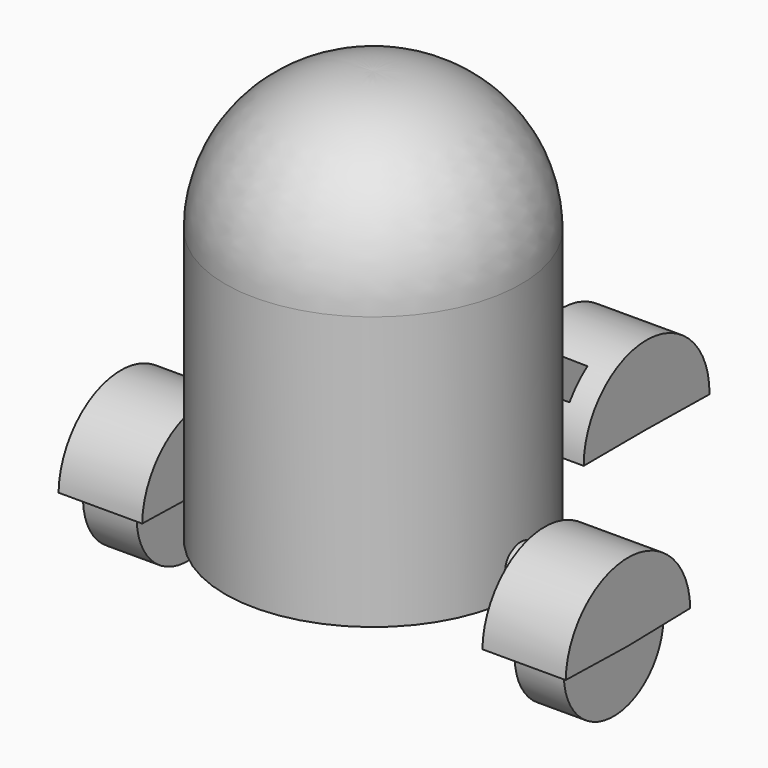
from build123d import *

# Parameters (mm, degrees)
F2_W          = 32.0429354906
F2_H          = 29.8280566931
F3_ANGLE_BACK = 88.7646603402
F3_ANGLE      = 177.5293206805
F2_W_2        = 31.9146811962
F4_R          = 6.9422785997
F5_DEPTH      = 75.1910284162
F7_W          = 32.6952636242
F7_H          = 30.1112085581
F8_ANGLE_BACK = 90.8560405858
F8_ANGLE      = 181.0352194428
F10_DEPTH     = 5.3917551413
F11_W         = 20.5672681332
F11_H         = 22.4275141954
F11_W_2       = 18.8117921352
F11_H_2       = 23.8710641861


with BuildPart() as f1:
    # F0 (on Front) → F1 (revolve)
    with BuildSketch(Plane.XZ):
        with BuildLine():
            ThreePointArc((0, 79.7378569841), (-39.8556403418, 65.3140028799), (-56.6673278809, 26.4053046703))
            Line((-56.6673278809, 26.4053046703), (-56.6673278809, -78.1663507223))
            Line((-56.6673278809, -78.1663507223), (0, -77.6233673096))
            Line((0, -77.6233673096), (0, 26.4053046703))
            Line((0, 26.4053046703), (0, 79.7378569841))
        make_face()
    revolve(axis=Axis((0, 0, -25.6090313196), (0, 0, 1)))


with BuildPart() as f3:
    # F2 (on Front) → F3 (revolve)
    with BuildSketch(Plane.XZ, mode=Mode.PRIVATE) as f3_sk:
        with Locations((-80.6486681104, -67.3911049962)):
            Rectangle(F2_W, F2_H)
    revolve(f3_sk.sketch.rotate(Axis((-80.6486681104, 0, -82.3051333427), (-1, 0, 0)), -F3_ANGLE_BACK), axis=Axis((-80.6486681104, 0, -82.3051333427), (-1, 0, 0)), revolution_arc=F3_ANGLE)


with BuildPart() as f3b:
    # F2 (on Front) → F3, piece 2 (revolve)
    with BuildSketch(Plane.XZ, mode=Mode.PRIVATE) as f3_sk:
        with Locations((81.6484242678, -67.3911049962)):
            Rectangle(F2_W_2, F2_H)
    revolve(f3_sk.sketch.rotate(Axis((-80.6486681104, 0, -82.3051333427), (-1, 0, 0)), -F3_ANGLE_BACK), axis=Axis((-80.6486681104, 0, -82.3051333427), (-1, 0, 0)), revolution_arc=F3_ANGLE)


with BuildPart() as f5:
    # F4 (on Right) → F5 (new body, symmetric)
    with BuildSketch(Plane.YZ):
        with Locations((0, -67.4443393946)):
            Circle(F4_R)
    extrude(amount=F5_DEPTH, both=True)


with BuildPart() as f8:
    # F7 (on offset) → F8 (revolve)
    with BuildSketch(Plane.XZ.offset(-112.5862151384), mode=Mode.PRIVATE) as f8_sk:
        with Locations((-1.6815513372, -66.9016763568)):
            Rectangle(F7_W, F7_H)
    revolve(f8_sk.sketch.rotate(Axis((-1.6815513372, 112.5862151384, -81.9572806358), (1, 0, 0)), -F8_ANGLE_BACK), axis=Axis((-1.6815513372, 112.5862151384, -81.9572806358), (1, 0, 0)), revolution_arc=F8_ANGLE)


with BuildPart() as f10:
    # F9 (on Right) → F10 (new body, symmetric)
    with BuildSketch(Plane.YZ):
        Polygon((22.8431224823, -23.6423164606), (94.5033729076, -70.2674239874), (115.1084303856, -69.9733197689), (30.2099883556, -12.3226642609), align=None)
    extrude(amount=F10_DEPTH, both=True)


with BuildPart() as f12:
    # F11 (on Front) → F12 (revolve)
    with BuildSketch(Plane.XZ):
        with Locations((-81.2535434961, -70.6338062882)):
            Rectangle(F11_W, F11_H)
    revolve(axis=Axis((82.7046483755, 0, -83.9451551437), (1, 0, 0)))


with BuildPart() as f12b:
    # F11 (on Front) → F12, piece 2 (revolve)
    with BuildSketch(Plane.XZ):
        with Locations((82.7046483755, -72.0096230507)):
            Rectangle(F11_W_2, F11_H_2)
    revolve(axis=Axis((82.7046483755, 0, -83.9451551437), (1, 0, 0)))


solid = Compound([f1.part, f3.part, f3b.part, f5.part, f8.part, f10.part, f12.part, f12b.part])
